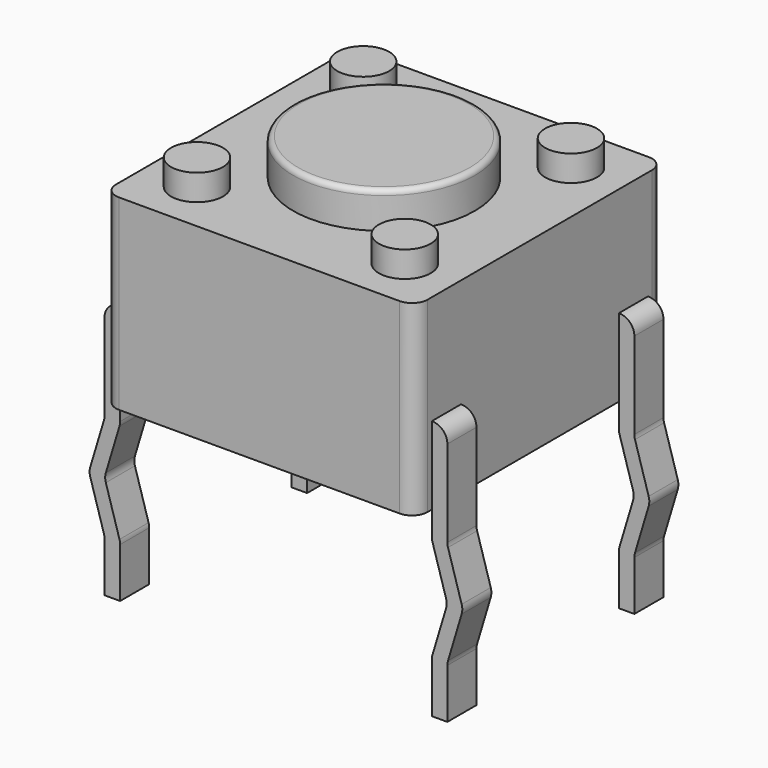
from build123d import *

# Parameters (mm, degrees)
SKETCH001_W  = 6
SKETCH001_H  = 6
PAD001_DEPTH = 0.1
FILLET001_R  = 0.3
PAD008_DEPTH = 0.7
FILLET003_R  = 0.29
PAD009_DEPTH = 0.7
FILLET004_R  = 0.29
PAD010_DEPTH = 0.7
FILLET005_R  = 0.29
SKETCH_W     = 6
SKETCH_H     = 6
PAD_DEPTH    = 3.5
FILLET_R     = 0.3
SKETCH004_R  = 0.5
PAD003_DEPTH = 0.6
SKETCH003_R  = 0.5
PAD004_DEPTH = 0.6
SKETCH005_R  = 0.5
PAD002_DEPTH = 0.6
SKETCH002_R  = 0.5
PAD005_DEPTH = 0.6
SKETCH006_R  = 1.75
PAD006_DEPTH = 0.8
FILLET006_R  = 0.1
PAD007_DEPTH = 0.7
FILLET002_R  = 0.29


with BuildPart() as fillet001:
    # Sketch001 → Pad001 (new body)
    with BuildSketch(Plane.XY.offset(3.5)):
        with Locations((3.15, -2.25)):
            Rectangle(SKETCH001_W, SKETCH001_H)
    extrude(amount=PAD001_DEPTH)

    # Fillet001
    fillet001_edges = [fillet001.edges().sort_by_distance(p)[0] for p in [
        (6.15, -5.25, 3.55),
        (0.15, -5.25, 3.55),
        (6.15, 0.75, 3.55),
        (0.15, 0.75, 3.55),
    ]]
    fillet(fillet001_edges, radius=FILLET001_R)


with BuildPart() as fillet003:
    # Sketch008 → Pad008 (new body)
    with BuildSketch(Plane.XZ.offset(0.35)):
        Polygon((-0.15, 1.5), (0.15, 1.5), (0.15, -0.5), (-0.15, -1.5), (0.15, -2.5), (0.15, -3.5), (-0.15, -3.5), (-0.15, -2.5), (-0.45, -1.5), (-0.15, -0.5), align=None)
    extrude(amount=-PAD008_DEPTH)

    # Fillet003
    fillet003_edges = [fillet003.edges().sort_by_distance(p)[0] for p in [
        (-0.15, 0, -2.5),
        (-0.15, 0, -0.5),
        (-0.45, 0, -1.5),
        (-0.15, 0, 1.5),
        (0.15, 0, -0.5),
        (-0.15, 0, -1.5),
        (0.15, 0, -2.5),
    ]]
    fillet(fillet003_edges, radius=FILLET003_R)


with BuildPart() as fillet004:
    # Sketch009 → Pad009 (new body)
    with BuildSketch(Plane.XZ.offset(4.85)):
        Polygon((6.45, 1.5), (6.15, 1.5), (6.15, -0.5), (6.45, -1.5), (6.15, -2.5), (6.15, -3.5), (6.45, -3.5), (6.45, -2.5), (6.75, -1.5), (6.45, -0.5), align=None)
    extrude(amount=-PAD009_DEPTH)

    # Fillet004
    fillet004_edges = [fillet004.edges().sort_by_distance(p)[0] for p in [
        (6.45, -4.5, -2.5),
        (6.45, -4.5, -0.5),
        (6.75, -4.5, -1.5),
        (6.45, -4.5, 1.5),
        (6.15, -4.5, -0.5),
        (6.45, -4.5, -1.5),
        (6.15, -4.5, -2.5),
    ]]
    fillet(fillet004_edges, radius=FILLET004_R)


with BuildPart() as fillet005:
    # Sketch010 → Pad010 (new body)
    with BuildSketch(Plane.XZ.offset(0.35)):
        Polygon((6.45, 1.5), (6.15, 1.5), (6.15, -0.5), (6.45, -1.5), (6.15, -2.5), (6.15, -3.5), (6.45, -3.5), (6.45, -2.5), (6.75, -1.5), (6.45, -0.5), align=None)
    extrude(amount=-PAD010_DEPTH)

    # Fillet005
    fillet005_edges = [fillet005.edges().sort_by_distance(p)[0] for p in [
        (6.45, 0, -2.5),
        (6.45, 0, -0.5),
        (6.75, 0, -1.5),
        (6.45, 0, 1.5),
        (6.15, 0, -0.5),
        (6.45, 0, -1.5),
        (6.15, 0, -2.5),
    ]]
    fillet(fillet005_edges, radius=FILLET005_R)


with BuildPart() as fillet_body:
    # Sketch → Pad (new body)
    with BuildSketch(Plane.XY):
        with Locations((3.15, -2.25)):
            Rectangle(SKETCH_W, SKETCH_H)
    extrude(amount=PAD_DEPTH)

    # Fillet
    fillet_edges = [fillet_body.edges().sort_by_distance(p)[0] for p in [
        (6.15, 0.75, 1.75),
        (6.15, -5.25, 1.75),
        (0.15, -5.25, 1.75),
        (0.15, 0.75, 1.75),
    ]]
    fillet(fillet_edges, radius=FILLET_R)


with BuildPart() as pad003:
    # Pad003 base: copy of Fillet body
    add(fillet_body.part)

    # Sketch004 → Pad003 (new body)
    with BuildSketch(Plane.XY.offset(3.5)):
        with Locations((5.15, -0.25)):
            Circle(SKETCH004_R)
    extrude(amount=PAD003_DEPTH)


with BuildPart() as pad004:
    # Pad004 base: copy of Fillet body
    add(fillet_body.part)

    # Sketch003 → Pad004 (new body)
    with BuildSketch(Plane.XY.offset(3.5)):
        with Locations((5.15, -4.25)):
            Circle(SKETCH003_R)
    extrude(amount=PAD004_DEPTH)


with BuildPart() as pad002:
    # Pad002 base: copy of Fillet body
    add(fillet_body.part)

    # Sketch005 → Pad002 (new body)
    with BuildSketch(Plane.XY.offset(3.5)):
        with Locations((1.15, -0.25)):
            Circle(SKETCH005_R)
    extrude(amount=PAD002_DEPTH)


with BuildPart() as pad005:
    # Pad005 base: copy of Fillet body
    add(fillet_body.part)

    # Sketch002 → Pad005 (new body)
    with BuildSketch(Plane.XY.offset(3.5)):
        with Locations((1.15, -4.25)):
            Circle(SKETCH002_R)
    extrude(amount=PAD005_DEPTH)


with BuildPart() as fillet006:
    # Pad006 base: copy of Fillet body
    add(fillet_body.part)

    # Sketch006 → Pad006 (new body)
    with BuildSketch(Plane.XY.offset(3.5)):
        with Locations((3.15, -2.25)):
            Circle(SKETCH006_R)
    extrude(amount=PAD006_DEPTH)

    # Fillet006
    fillet006_edges = [fillet006.edges().sort_by_distance(p)[0] for p in [
        (1.4, -2.25, 4.3),
    ]]
    fillet(fillet006_edges, radius=FILLET006_R)


with BuildPart() as obj1:
    # Sketch007 → Pad007 (new body)
    with BuildSketch(Plane.XZ.offset(4.85)):
        Polygon((-0.15, 1.5), (0.15, 1.5), (0.15, -0.5), (-0.15, -1.5), (0.15, -2.5), (0.15, -3.5), (-0.15, -3.5), (-0.15, -2.5), (-0.45, -1.5), (-0.15, -0.5), align=None)
    extrude(amount=-PAD007_DEPTH)

    # Fillet002
    fillet002_edges = [obj1.edges().sort_by_distance(p)[0] for p in [
        (-0.15, -4.5, -2.5),
        (-0.15, -4.5, -0.5),
        (-0.45, -4.5, -1.5),
        (-0.15, -4.5, 1.5),
        (0.15, -4.5, -0.5),
        (-0.15, -4.5, -1.5),
        (0.15, -4.5, -2.5),
    ]]
    fillet(fillet002_edges, radius=FILLET002_R)

    add(fillet001.part)
    add(fillet003.part)
    add(fillet004.part)
    add(fillet005.part)
    add(pad003.part)
    add(pad004.part)
    add(pad002.part)
    add(pad005.part)
    add(fillet006.part)


solid = obj1.part
